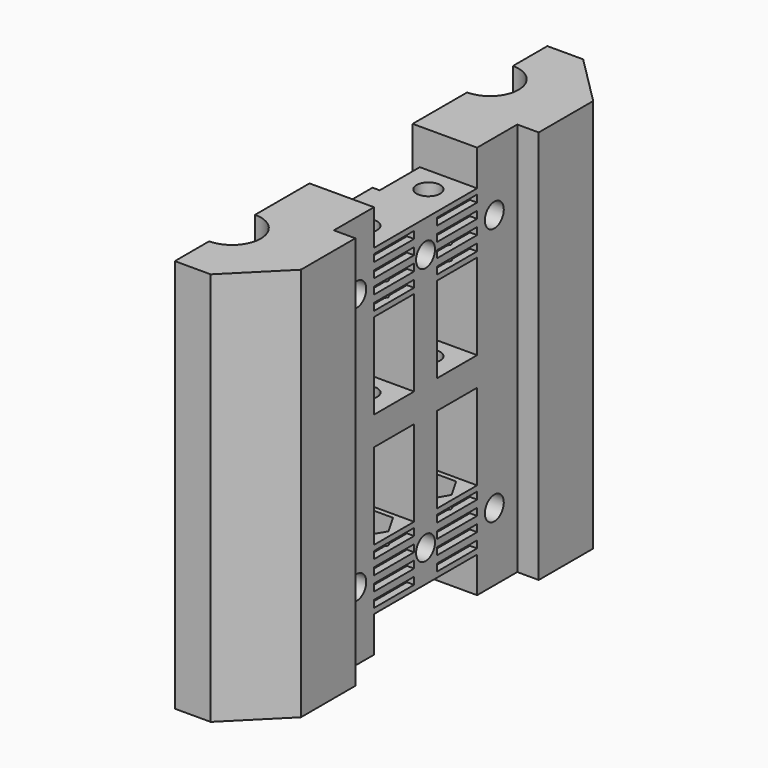
from build123d import *

# Parameters (mm, degrees)
SKETCH_R             = 1.65
PAD_DEPTH            = 27.5
SKETCH001_R          = 7.65
POCKET_DEPTH         = 22.7
SKETCH002_W          = 2
SKETCH002_H          = 7
POCKET001_DEPTH      = 27.501
POCKET001_DEPTH_BACK = -27.501
SKETCH003_W          = 18
SKETCH003_H          = 5
POCKET002_DEPTH      = 0.001
POCKET002_DEPTH_BACK = -17.501
SKETCH004_W          = 23.804039
SKETCH004_H          = 32
POCKET003_DEPTH      = 27.501
POCKET003_DEPTH_BACK = -27.501
SKETCH005_W          = 7
SKETCH005_H          = 12
POCKET004_DEPTH      = 17.501
POCKET005_DEPTH      = 3
SKETCH007_W          = 24.471905
SKETCH007_H          = 61.781853
POCKET006_DEPTH      = 27.501
POCKET006_DEPTH_BACK = -27.501
SKETCH008_R          = 1.65
POCKET007_DEPTH      = 12.001
POCKET008_DEPTH      = 3
SKETCH010_W          = 7
SKETCH010_H          = 1
POCKET009_DEPTH      = 1


with BuildPart() as part:
    # Sketch → Pad (new body, symmetric)
    with BuildSketch(Plane.XY):
        with BuildLine():
            Line((0, 32.5), (5, 32.5))
            Line((5, 32.5), (17.5, 20))
            Line((17.5, 20), (17.5, -20))
            Line((17.5, -20), (5, -32.5))
            Line((5, -32.5), (0, -32.5))
            Line((0, -26.5), (0, -32.5))
            ThreePointArc((0, -26.5), (4, -22.5), (0, -18.5))
            Line((0, 18.5), (0, -18.5))
            ThreePointArc((0, 18.5), (4, 22.5), (0, 26.5))
            Line((0, 32.5), (0, 26.5))
        make_face()
        with Locations((5, 5.5)):
            Circle(SKETCH_R, mode=Mode.SUBTRACT)
        with Locations((5, -5.5)):
            Circle(SKETCH_R, mode=Mode.SUBTRACT)
    extrude(amount=PAD_DEPTH, both=True)

    # Sketch001 → Pocket (cut, symmetric)
    with BuildSketch(Plane.XY):
        with Locations((0, 22.5)):
            Circle(SKETCH001_R)
        with Locations((0, -22.5)):
            Circle(SKETCH001_R)
    extrude(amount=POCKET_DEPTH, both=True, mode=Mode.SUBTRACT)

    # Sketch002 → Pocket001 (cut, two sides)
    with BuildSketch(Plane.XY) as pocket001_sk:
        with Locations((0, 5.5)):
            Rectangle(SKETCH002_W, SKETCH002_H)
        with Locations((0, -5.5)):
            Rectangle(SKETCH002_W, SKETCH002_H)
    extrude(amount=-POCKET001_DEPTH, mode=Mode.SUBTRACT)
    extrude(pocket001_sk.sketch, amount=-POCKET001_DEPTH_BACK, mode=Mode.SUBTRACT)

    # Sketch003 → Pocket002 (cut, two sides)
    with BuildSketch(Plane.YZ) as pocket002_sk:
        with Locations((0, 25)):
            Rectangle(SKETCH003_W, SKETCH003_H)
        with Locations((0, -25)):
            Rectangle(SKETCH003_W, SKETCH003_H)
    extrude(amount=-POCKET002_DEPTH, mode=Mode.SUBTRACT)
    extrude(pocket002_sk.sketch, amount=-POCKET002_DEPTH_BACK, mode=Mode.SUBTRACT)

    # Sketch004 → Pocket003 (cut, two sides)
    with BuildSketch(Plane.XY) as pocket003_sk:
        with Locations((20.902019, 0)):
            Rectangle(SKETCH004_W, SKETCH004_H)
    extrude(amount=-POCKET003_DEPTH, mode=Mode.SUBTRACT)
    extrude(pocket003_sk.sketch, amount=-POCKET003_DEPTH_BACK, mode=Mode.SUBTRACT)

    # Sketch005 → Pocket004 (cut, through all)
    with BuildSketch(Plane.YZ):
        with Locations((-5.5, 8)):
            Rectangle(SKETCH005_W, SKETCH005_H)
        with Locations((-5.5, -8)):
            Rectangle(SKETCH005_W, SKETCH005_H)
        with Locations((5.5, 8)):
            Rectangle(SKETCH005_W, SKETCH005_H)
        with Locations((5.5, -8)):
            Rectangle(SKETCH005_W, SKETCH005_H)
    extrude(amount=POCKET004_DEPTH, mode=Mode.SUBTRACT)

    # Sketch006 (on DatumPlane) → Pocket005 (cut)
    with BuildSketch(Plane.XY.offset(14)):
        Polygon((8.233162, 5.5), (6.616581, 8.3), (3.383419, 8.3), (1.766838, 5.5), (3.383419, 2.7), (6.616581, 2.7), align=None)
        Polygon((8.233162, -5.5), (6.616581, -2.7), (3.383419, -2.7), (1.766838, -5.5), (3.383419, -8.3), (6.616581, -8.3), align=None)
    extrude(amount=POCKET005_DEPTH, mode=Mode.SUBTRACT)

    # Sketch007 → Pocket006 (cut, two sides)
    with BuildSketch(Plane.XY) as pocket006_sk:
        with Locations((24.235952, 0.497813)):
            Rectangle(SKETCH007_W, SKETCH007_H)
    extrude(amount=-POCKET006_DEPTH, mode=Mode.SUBTRACT)
    extrude(pocket006_sk.sketch, amount=-POCKET006_DEPTH_BACK, mode=Mode.SUBTRACT)

    # Sketch008 → Pocket007 (cut, through all)
    with BuildSketch(Plane.YZ):
        with Locations((12, 18)):
            Circle(SKETCH008_R)
        with Locations((-12, 18)):
            Circle(SKETCH008_R)
        with Locations((0, 18)):
            Circle(SKETCH008_R)
        with Locations((0, -18)):
            Circle(SKETCH008_R)
        with Locations((-12, -18)):
            Circle(SKETCH008_R)
        with Locations((12, -18)):
            Circle(SKETCH008_R)
    extrude(amount=POCKET007_DEPTH, mode=Mode.SUBTRACT)

    # Sketch009 (on DatumPlane) → Pocket008 (cut)
    with BuildSketch(Plane.XY.offset(-14)):
        Polygon((3.383419, 2.7), (6.616581, 2.7), (8.233162, 5.5), (6.616581, 8.3), (3.383419, 8.3), (1.766838, 5.5), align=None)
        Polygon((8.233162, -5.5), (6.616581, -2.7), (3.383419, -2.7), (1.766838, -5.5), (3.383419, -8.3), (6.616581, -8.3), align=None)
    extrude(amount=-POCKET008_DEPTH, mode=Mode.SUBTRACT)

    # Sketch010 (on DatumPlane) → Pocket009 (cut)
    with BuildSketch(Plane.YZ.offset(9)):
        with Locations((-5.5, 15.25)):
            Rectangle(SKETCH010_W, SKETCH010_H)
        with Locations((-5.5, 17.25)):
            Rectangle(SKETCH010_W, SKETCH010_H)
        with Locations((-5.5, 19.25)):
            Rectangle(SKETCH010_W, SKETCH010_H)
        with Locations((-5.5, 21.25)):
            Rectangle(SKETCH010_W, SKETCH010_H)
        with Locations((5.5, 15.25)):
            Rectangle(SKETCH010_W, SKETCH010_H)
        with Locations((5.5, 17.25)):
            Rectangle(SKETCH010_W, SKETCH010_H)
        with Locations((5.5, 19.25)):
            Rectangle(SKETCH010_W, SKETCH010_H)
        with Locations((5.5, 21.25)):
            Rectangle(SKETCH010_W, SKETCH010_H)
        with Locations((-5.5, -21.25)):
            Rectangle(SKETCH010_W, SKETCH010_H)
        with Locations((-5.5, -19.25)):
            Rectangle(SKETCH010_W, SKETCH010_H)
        with Locations((-5.5, -17.25)):
            Rectangle(SKETCH010_W, SKETCH010_H)
        with Locations((-5.5, -15.25)):
            Rectangle(SKETCH010_W, SKETCH010_H)
        with Locations((5.5, -21.25)):
            Rectangle(SKETCH010_W, SKETCH010_H)
        with Locations((5.5, -19.25)):
            Rectangle(SKETCH010_W, SKETCH010_H)
        with Locations((5.5, -17.25)):
            Rectangle(SKETCH010_W, SKETCH010_H)
        with Locations((5.5, -15.25)):
            Rectangle(SKETCH010_W, SKETCH010_H)
    extrude(amount=-POCKET009_DEPTH, mode=Mode.SUBTRACT)


solid = part.part
